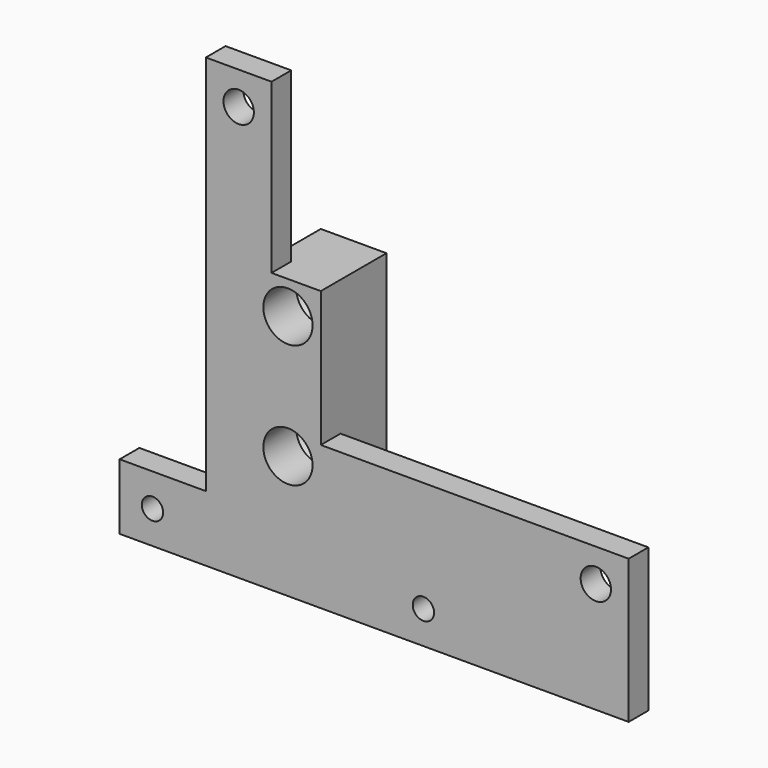
from build123d import *

# Parameters (mm, degrees)
F0_R     = 1.3
F0_R_2   = 1.85
F0_R_3   = 1.5
F1_DEPTH = 3
F2_DEPTH = 10
F3_D     = 6
F3_DEPTH = 5
F3_TIP   = 1.8025818571


with BuildPart() as f1:
    # F0 (on Front) → F1 (new body)
    with BuildSketch(Plane.XZ):
        Polygon((-10.5, -5), (51.5, -5), (51.5, 12.5), (14, 12.5), (14, 6), (6, 6), (6, 29), (8, 29), (8, 49.5), (0, 49.5), (0, 3), (-10.5, 3), align=None)
        with Locations((-6.5, -1)):
            Circle(F0_R, mode=Mode.SUBTRACT)
        with Locations((26.5, -1)):
            Circle(F0_R, mode=Mode.SUBTRACT)
        with Locations((47.5, 8.5)):
            Circle(F0_R_2, mode=Mode.SUBTRACT)
        with Locations((4, 45.5)):
            Circle(F0_R_2, mode=Mode.SUBTRACT)
        Polygon((14, 6), (14, 12.5), (14, 29), (8, 29), (6, 29), (6, 6), align=None)
        with Locations((10, 10)):
            Circle(F0_R_3, mode=Mode.SUBTRACT)
        with Locations((10, 25)):
            Circle(F0_R_3, mode=Mode.SUBTRACT)
    extrude(amount=-F1_DEPTH)

    # F0 (on Front) → F2 (join)
    with BuildSketch(Plane.XZ):
        Polygon((14, 6), (14, 12.5), (14, 29), (8, 29), (6, 29), (6, 6), align=None)
        with Locations((10, 10)):
            Circle(F0_R_3, mode=Mode.SUBTRACT)
        with Locations((10, 25)):
            Circle(F0_R_3, mode=Mode.SUBTRACT)
    extrude(amount=-F2_DEPTH)

    # F3
    with Locations(Plane.XZ):
        with Locations((10, 25), (10, 10)):
            Hole(F3_D / 2, depth=F3_DEPTH)
            with Locations((0, 0, -(F3_DEPTH + F3_TIP / 2))):  # 118° drill point
                Cone(0, F3_D / 2, F3_TIP, mode=Mode.SUBTRACT)


solid = f1.part
